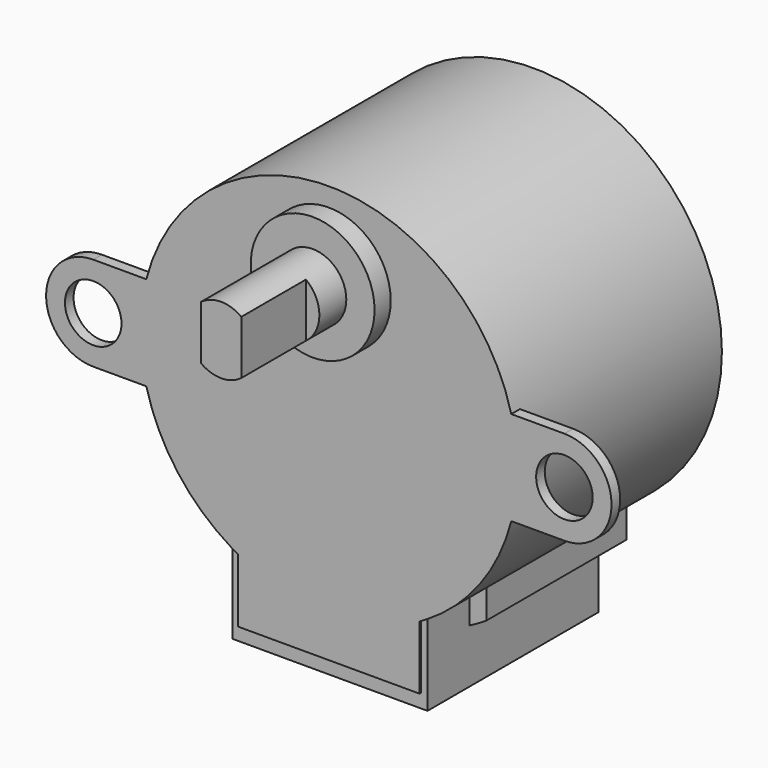
from build123d import *

# Parameters (mm, degrees)
SKETCH_R     = 14
PAD_DEPTH    = 19
SKETCH001_W  = 14.5
SKETCH001_H  = 6.02346
PAD001_DEPTH = 16
SKETCH002_R  = 2.1
PAD002_DEPTH = 0.8
SKETCH003_R  = 4.6
PAD003_DEPTH = 1.5
SKETCH004_R  = 2.5
PAD004_DEPTH = 2.5
PAD005_DEPTH = 6
PAD006_DEPTH = 12
PAD007_DEPTH = 1
POCKET_DEPTH = 0.1


with BuildPart() as part:
    # Sketch → Pad (new body)
    with BuildSketch(Plane.XZ):
        Circle(SKETCH_R)
    extrude(amount=-PAD_DEPTH)

    # Sketch001 (on Face2 of Pad) → Pad001 (join)
    with BuildSketch(Plane.XZ):
        with Locations((0, -14.98827)):
            Rectangle(SKETCH001_W, SKETCH001_H)
    extrude(amount=-PAD001_DEPTH)

    # Sketch002 (on Face7 of Pad001) → Pad002 (join)
    with BuildSketch(Plane.XZ):
        with BuildLine():
            ThreePointArc((-17.5, 3.5), (-21, 0), (-17.5, -3.5))
            Line((-13.555442, -3.5), (-17.5, -3.5))
            Line((-13.555442, 3.5), (-13.555442, -3.5))
            Line((-17.5, 3.5), (-13.555442, 3.5))
        make_face()
        with Locations((-17.5, 0)):
            Circle(SKETCH002_R, mode=Mode.SUBTRACT)
    pad002 = extrude(amount=-PAD002_DEPTH)

    # Mirrored: Pad002 across Sketch002 V_Axis
    add(pad002.mirror(Plane(origin=(0, 0, 0), x_dir=(0, -1, 0), z_dir=(1, 0, 0))))

    # Sketch003 (on Face17 of Mirrored) → Pad003 (join)
    with BuildSketch(Plane.XZ):
        with Locations((0, 8)):
            Circle(SKETCH003_R)
    extrude(amount=PAD003_DEPTH)

    # Sketch004 (on Face19 of Pad003) → Pad004 (join)
    with BuildSketch(Plane.XZ.offset(1.5)):
        with Locations((0, 8)):
            Circle(SKETCH004_R)
    extrude(amount=PAD004_DEPTH)

    # Sketch005 (on Face21 of Pad004) → Pad005 (join)
    with BuildSketch(Plane.XZ.offset(4)):
        with BuildLine():
            Line((-1.5, 10), (-1.5, 6))
            ThreePointArc((-1.5, 6), (0, 5.5), (1.5, 6))
            Line((1.5, 10), (1.5, 6))
            ThreePointArc((1.5, 10), (0, 10.5), (-1.5, 10))
        make_face()
    extrude(amount=PAD005_DEPTH)

    # Sketch006 (on DatumPlane) → Pad006 (join)
    with BuildSketch(Plane.XZ.offset(-4)):
        with BuildLine():
            ThreePointArc((-8.5, -13.278272), (-7.883264, -13.653448), (-7.25, -14))
            Line((-7.25, -14), (-7.25, -11.97654))
            ThreePointArc((-8.5, -11.124298), (-7.88652, -11.567316), (-7.25, -11.97654))
            Line((-8.5, -13.278272), (-8.5, -11.124298))
        make_face()
    pad006 = extrude(amount=-PAD006_DEPTH)

    # Mirrored001: Pad006 across Sketch006 V_Axis
    add(pad006.mirror(Plane(origin=(0, 4, 0), x_dir=(0, -1, 0), z_dir=(1, 0, 0))))

    # Sketch007 (on Face31 of Mirrored001) → Pad007 (join)
    with BuildSketch(Plane(origin=(0, 16, 0), x_dir=(1, 0, 0), z_dir=(0, 1, 0))):
        with BuildLine():
            ThreePointArc((8.5, 11.124298), (0, 14), (-8.5, 11.124298))
            Line((-8.5, 13.278272), (-8.5, 11.124298))
            ThreePointArc((8.5, 13.278272), (0, 15.765865), (-8.5, 13.278272))
            Line((8.5, 13.278272), (8.5, 11.124298))
        make_face()
    extrude(amount=PAD007_DEPTH)

    # Sketch008 (on Face9 of Pad007) → Pocket (cut)
    with BuildSketch(Plane.XZ):
        with BuildLine():
            Line((-7.25, -11.97654), (-7.25, -18))
            Line((7.25, -18), (-7.25, -18))
            Line((7.25, -18), (7.25, -11.97654))
            ThreePointArc((6.75, -12.265297), (7.001278, -12.123131), (7.25, -11.97654))
            Line((6.75, -17), (6.75, -12.265297))
            Line((-6.75, -17), (6.75, -17))
            Line((-6.75, -12.265297), (-6.75, -17))
            ThreePointArc((-7.25, -11.97654), (-7.001489, -12.123496), (-6.75, -12.265297))
        make_face()
    extrude(amount=-POCKET_DEPTH, mode=Mode.SUBTRACT)


solid = part.part
